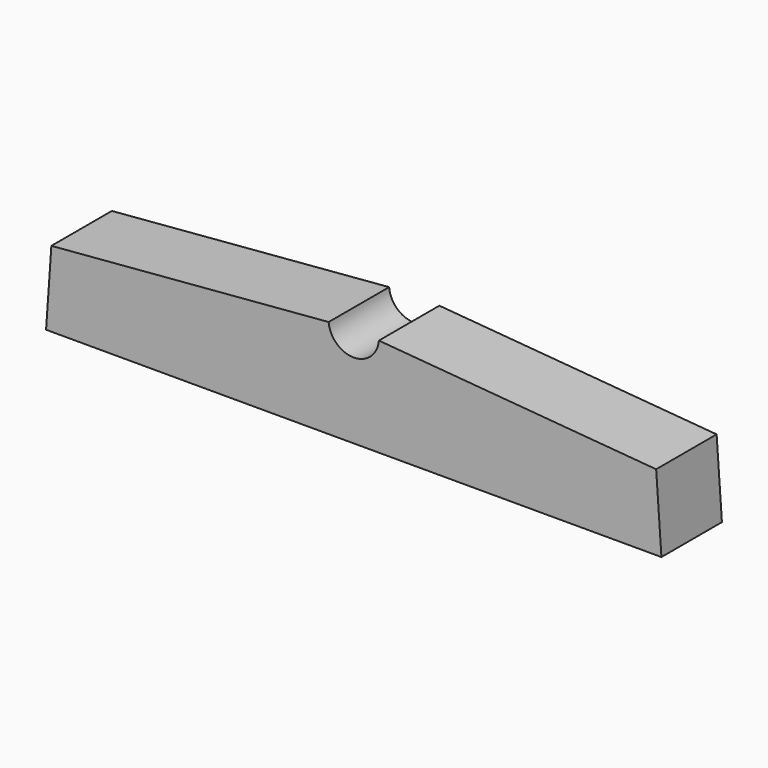
from build123d import *

# Parameters (mm, degrees)
F1_DEPTH = 30
F2_R     = 10
F3_DEPTH = 30


with BuildPart() as f1:
    # F0 (on Front) → F1 (new body)
    with BuildSketch(Plane.XZ):
        Polygon((120, 10), (0, 0), (240, 0), align=None)
        Polygon((240, 0), (0, 0), (-2.097804, -30), (120, -30), (242.097804, -30), align=None)
    extrude(amount=F1_DEPTH)

    # F2 (on face) → F3 (cut)
    with BuildSketch(Plane.XZ.offset(30)):
        with Locations((120, 10)):
            Circle(F2_R)
    extrude(amount=-F3_DEPTH, mode=Mode.SUBTRACT)


solid = f1.part
